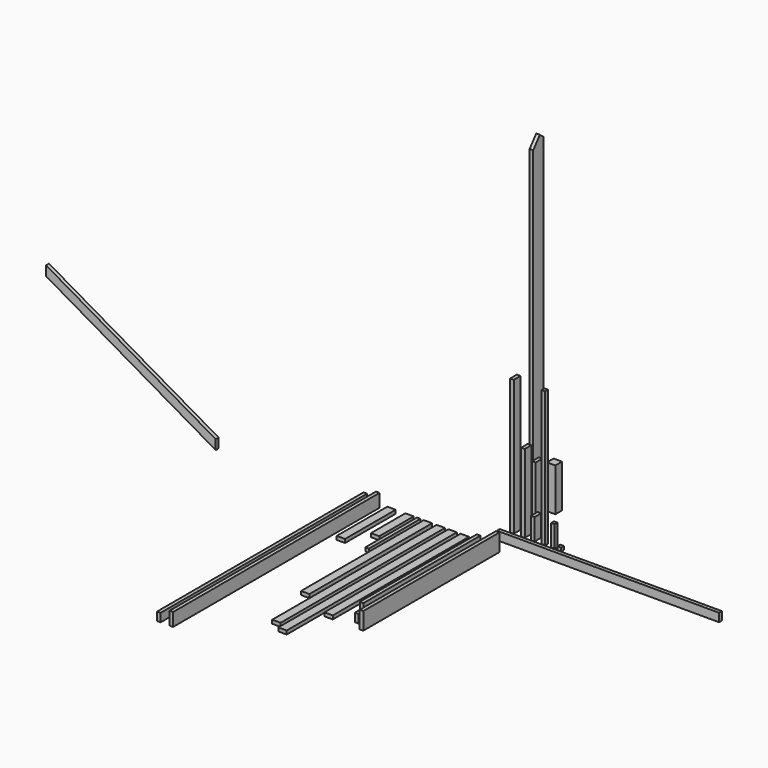
from build123d import *

# Parameters (mm, degrees)
F0_W      = 38.1
F0_H      = 88.9
F1_DEPTH  = 1733.55
F2_W      = 38.1
F2_H      = 184.15
F3_DEPTH  = 1809.75
F4_W      = 38.1
F4_H      = 88.9
F5_DEPTH  = 1555.75
F6_W      = 38.1
F6_H      = 88.9
F7_DEPTH  = 2362.2
F8_W      = 88.9
F8_H      = 38.1
F9_DEPTH  = 1809.75
F10_W     = 88.9
F10_H     = 38.1
F11_DEPTH = 2260.6
F12_W     = 38.1
F12_H     = 88.9
F13_DEPTH = 1441.45
F14_W     = 38.1
F14_H     = 139.7
F15_DEPTH = 3657.6
F17_DEPTH = 38.1
F19_DEPTH = 38.1
F20_W     = 88.9
F20_H     = 38.1
F21_DEPTH = 2184.4
F22_W     = 88.9
F22_H     = 38.1
F23_DEPTH = 1631.95
F24_W     = 38.1
F24_H     = 88.9
F25_DEPTH = 831.85
F26_W     = 38.1
F26_H     = 88.9
F27_DEPTH = 228.6
F28_W     = 38.1
F28_H     = 38.1
F29_DEPTH = 1441.45
F30_W     = 38.1
F30_H     = 38.1
F31_DEPTH = 685.8
F32_W     = 88.9
F32_H     = 38.1
F33_DEPTH = 457.2
F34_W     = 88.9
F34_H     = 88.9
F35_DEPTH = 457.2
F36_W     = 38.1
F36_H     = 38.1
F37_DEPTH = 228.6
F38_W     = 38.1
F38_H     = 38.1
F39_DEPTH = 38.1
F41_W     = 88.9
F41_H     = 38.1
F42_DEPTH = 673.1
F43_W     = 38.1
F43_H     = 139.7
F44_DEPTH = 2743.2
F45_DEPTH = 38.1
F46_W     = 38.1
F46_H     = 88.9
F47_DEPTH = 2743.2
F48_W     = 38.1
F48_H     = 88.9
F49_DEPTH = 647.7


with BuildPart() as f1:
    # F0 (on Front) → F1 (new body)
    with BuildSketch(Plane.XZ):
        with Locations((19.05, 44.45)):
            Rectangle(F0_W, F0_H)
    extrude(amount=F1_DEPTH)


with BuildPart() as f3:
    # F2 (on Front) → F3 (new body)
    with BuildSketch(Plane.XZ):
        with Locations((132.148183, 92.075)):
            Rectangle(F2_W, F2_H)
    extrude(amount=F3_DEPTH)


with BuildPart() as f5:
    # F4 (on Front) → F5 (new body)
    with BuildSketch(Plane.XZ):
        with Locations((-70.330999, 44.45)):
            Rectangle(F4_W, F4_H)
    extrude(amount=F5_DEPTH)


with BuildPart() as f7:
    # F6 (on Right) → F7 (new body)
    with BuildSketch(Plane.YZ):
        with Locations((173.433981, 44.45)):
            Rectangle(F6_W, F6_H)
    extrude(amount=F7_DEPTH)


with BuildPart() as f9:
    # F8 (on Front) → F9 (new body)
    with BuildSketch(Plane.XZ):
        with Locations((-217.284162, 19.05)):
            Rectangle(F8_W, F8_H)
    extrude(amount=F9_DEPTH)


with BuildPart() as f11:
    # F10 (on Front) → F11 (new body)
    with BuildSketch(Plane.XZ):
        with Locations((-346.756616, 19.05)):
            Rectangle(F10_W, F10_H)
    extrude(amount=F11_DEPTH)


with BuildPart() as f13:
    # F12 (on Top) → F13 (new body)
    with BuildSketch(Plane.XY):
        with Locations((19.05, 376.220504)):
            Rectangle(F12_W, F12_H)
    extrude(amount=F13_DEPTH)


with BuildPart() as f15:
    # F14 (on Top) → F15 (new body)
    with BuildSketch(Plane.XY):
        with Locations((19.05, 659.862631)):
            Rectangle(F14_W, F14_H)
    extrude(amount=F15_DEPTH)

    # F16 (on face) → F17 (cut)
    with BuildSketch(Plane(origin=(0, 0, 0), x_dir=(0, -1, 0), z_dir=(-1, 0, 0))):
        Polygon((-729.712631, 3657.6), (-590.012631, 3485.084867), (-590.012631, 3657.6), align=None)
        Polygon((-729.712631, 0), (-590.012631, 0), (-729.712631, 172.515133), align=None)
    extrude(amount=-F17_DEPTH, mode=Mode.SUBTRACT)

    # F18 (on face) → F19 (cut)
    with BuildSketch(Plane(origin=(0, 0, 0), x_dir=(0, -1, 0), z_dir=(-1, 0, 0))):
        Polygon((-677.928689, 3593.652158), (-729.712631, 3657.6), (-729.712631, 3551.718349), align=None)
    extrude(amount=-F19_DEPTH, mode=Mode.SUBTRACT)


with BuildPart() as f21:
    # F20 (on Front) → F21 (new body)
    with BuildSketch(Plane.XZ):
        with Locations((-472.680656, 19.05)):
            Rectangle(F20_W, F20_H)
    extrude(amount=F21_DEPTH)


with BuildPart() as f23:
    # F22 (on Front) → F23 (new body)
    with BuildSketch(Plane.XZ):
        with Locations((-608.450331, 19.05)):
            Rectangle(F22_W, F22_H)
    extrude(amount=F23_DEPTH)


with BuildPart() as f25:
    # F24 (on Top) → F25 (new body)
    with BuildSketch(Plane.XY):
        with Locations((136.190138, 376.264662)):
            Rectangle(F24_W, F24_H)
    extrude(amount=F25_DEPTH)


with BuildPart() as f27:
    # F26 (on Top) → F27 (new body)
    with BuildSketch(Plane.XY):
        with Locations((240.661755, 373.660401)):
            Rectangle(F26_W, F26_H)
    extrude(amount=F27_DEPTH)


with BuildPart() as f29:
    # F28 (on Top) → F29 (new body)
    with BuildSketch(Plane.XY):
        with Locations((352.496579, 351.285153)):
            Rectangle(F28_W, F28_H)
    extrude(amount=F29_DEPTH)


with BuildPart() as f31:
    # F30 (on Front) → F31 (new body)
    with BuildSketch(Plane.XZ):
        with Locations((-707.461006, 19.05)):
            Rectangle(F30_W, F30_H)
    extrude(amount=F31_DEPTH)


with BuildPart() as f33:
    # F32 (on Front) → F33 (new body)
    with BuildSketch(Plane.XZ):
        with Locations((-804.996761, 19.05)):
            Rectangle(F32_W, F32_H)
    extrude(amount=F33_DEPTH)


with BuildPart() as f35:
    # F34 (on Top) → F35 (new body)
    with BuildSketch(Plane.XY):
        with Locations((44.45, 864.975778)):
            Rectangle(F34_W, F34_H)
    extrude(amount=F35_DEPTH)


with BuildPart() as f37:
    # F36 (on Top) → F37 (new body)
    with BuildSketch(Plane.XY):
        with Locations((451.281339, 353.689343)):
            Rectangle(F36_W, F36_H)
    extrude(amount=F37_DEPTH)


with BuildPart() as f39:
    # F38 (on Top) → F39 (new body)
    with BuildSketch(Plane.XY):
        with Locations((525.357425, 344.83254)):
            Rectangle(F38_W, F38_H)
    extrude(amount=F39_DEPTH)


with BuildPart() as f42:
    # F41 (on Front) → F42 (new body)
    with BuildSketch(Plane.XZ):
        with Locations((-996.262368, 19.05)):
            Rectangle(F41_W, F41_H)
    extrude(amount=F42_DEPTH)


with BuildPart() as f44:
    # F43 (on Front) → F44 (new body)
    with BuildSketch(Plane.XZ):
        with Locations((-1142.927096, 69.85)):
            Rectangle(F43_W, F43_H)
    extrude(amount=F44_DEPTH)


with BuildPart() as f45:
    # F40 (on Front) → F45 (new body)
    with BuildSketch(Plane.XZ):
        Polygon((-4638.37558, 1040.347122), (-2834.617869, -1.052878), (-2834.617869, 101.6), (-4638.37558, 1143), align=None)
    extrude(amount=F45_DEPTH)


with BuildPart() as f47:
    # F46 (on Front) → F47 (new body)
    with BuildSketch(Plane.XZ):
        with Locations((-1275.508307, 44.45)):
            Rectangle(F46_W, F46_H)
    extrude(amount=F47_DEPTH)


with BuildPart() as f49:
    # F48 (on Top) → F49 (new body)
    with BuildSketch(Plane.XY):
        with Locations((137.394853, 517.849211)):
            Rectangle(F48_W, F48_H)
    extrude(amount=F49_DEPTH)


solid = Compound([f1.part, f3.part, f5.part, f7.part, f9.part, f11.part, f13.part, f15.part, f21.part, f23.part, f25.part, f27.part, f29.part, f31.part, f33.part, f35.part, f37.part, f39.part, f42.part, f44.part, f45.part, f47.part, f49.part])
